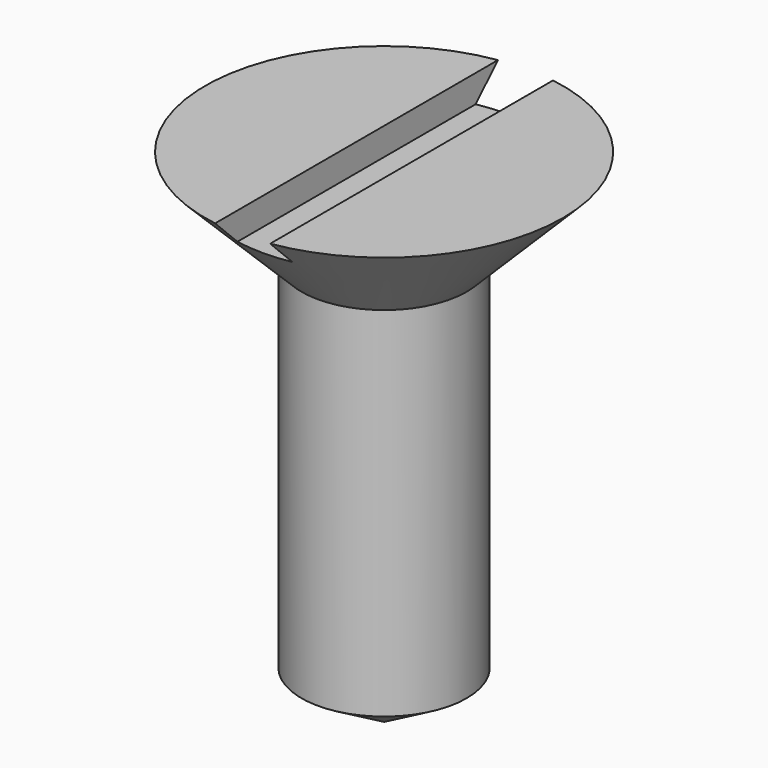
from build123d import *

# Parameters (mm, degrees)
F2_W          = 2
F2_H          = 4.9041104602
F3_DEPTH      = 6.501
F3_DEPTH_BACK = 6.501


with BuildPart() as f1:
    # F0 (on Front) → F1 (revolve)
    with BuildSketch(Plane.XZ):
        Polygon((0, 18.2320508076), (0, 0), (3, 1.7320508076), (3, 14.7320508076), (6.5, 18.2320508076), align=None)
    revolve(axis=Axis((0, 0, 9.1160254038), (0, 0, -1)))

    # F2 (on Front) → F3 (cut, two sides)
    with BuildSketch(Plane.XZ) as f3_sk:
        with Locations((0, 19.6841060377)):
            Rectangle(F2_W, F2_H)
    extrude(amount=-F3_DEPTH, mode=Mode.SUBTRACT)
    extrude(f3_sk.sketch, amount=F3_DEPTH_BACK, mode=Mode.SUBTRACT)


solid = f1.part
